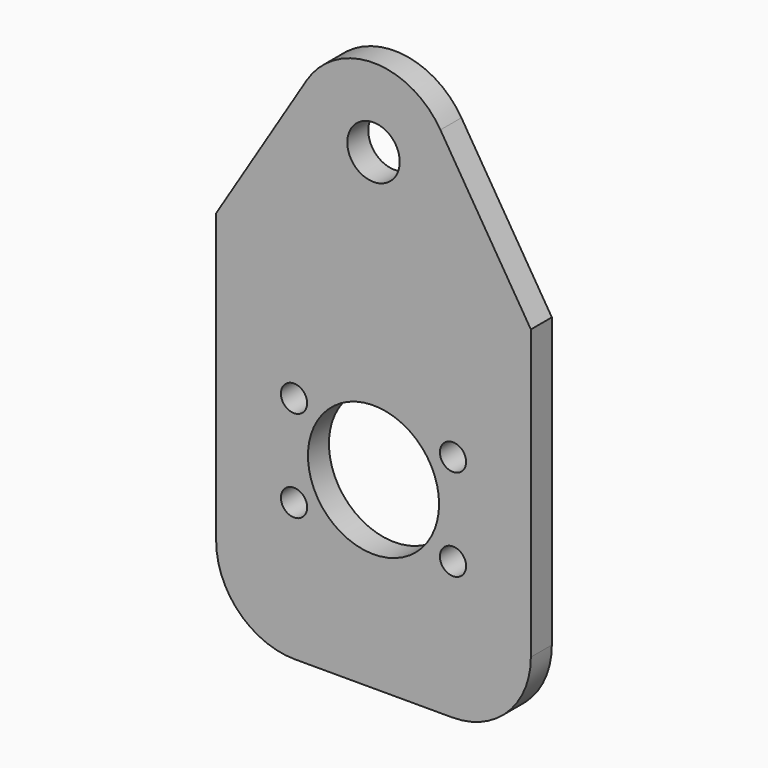
from build123d import *

# Parameters (mm, degrees)
F0_R     = 12.7
F0_R_2   = 63.5
F0_R_3   = 25.4
F1_DEPTH = 25.4


with BuildPart() as f1:
    # F0 (on Front) → F1 (new body)
    with BuildSketch(Plane.XZ):
        with BuildLine():
            Line((-64.813601, 319.470402), (-152.4, 177.8))
            Line((-152.4, 177.8), (-152.4, -101.6))
            ThreePointArc((-152.4, -101.6), (-130.081537, -155.481537), (-76.2, -177.8))
            Line((-76.2, -177.8), (76.2, -177.8))
            ThreePointArc((76.2, -177.8), (130.081537, -155.481537), (152.4, -101.6))
            Line((152.4, -101.6), (152.4, 177.8))
            Line((152.4, 177.8), (64.813601, 319.470402))
            ThreePointArc((64.813601, 319.470402), (0, 355.6), (-64.813601, 319.470402))
        make_face()
        with Locations((-76.989658, -44.45)):
            Circle(F0_R, mode=Mode.SUBTRACT)
        with Locations((-76.989658, 44.45)):
            Circle(F0_R, mode=Mode.SUBTRACT)
        Circle(F0_R_2, mode=Mode.SUBTRACT)
        with Locations((76.989658, -44.45)):
            Circle(F0_R, mode=Mode.SUBTRACT)
        with Locations((76.989658, 44.45)):
            Circle(F0_R, mode=Mode.SUBTRACT)
        with Locations((0, 279.4)):
            Circle(F0_R_3, mode=Mode.SUBTRACT)
    extrude(amount=F1_DEPTH)


solid = f1.part
